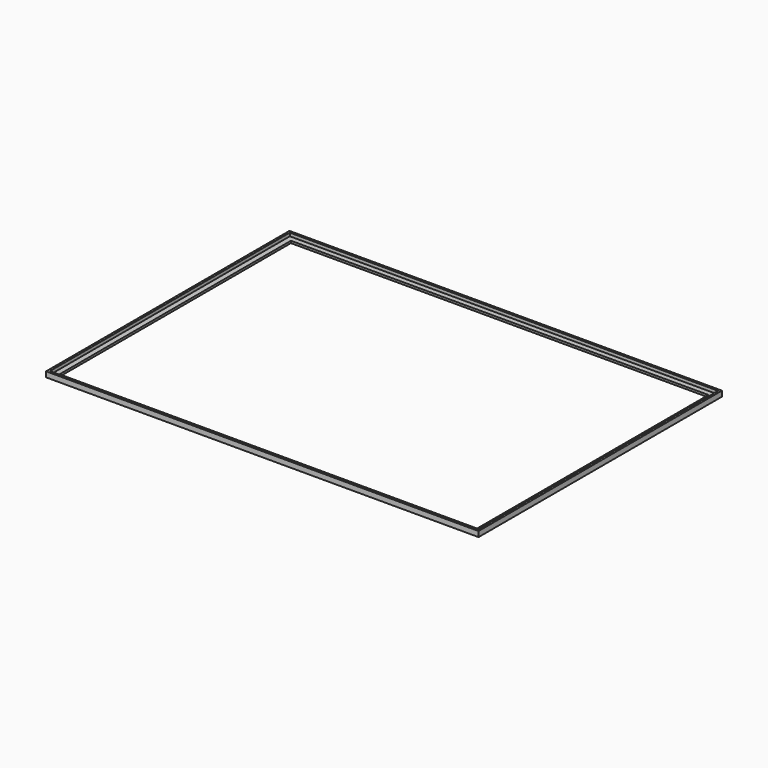
from build123d import *

# Parameters (mm, degrees)
F1_DEPTH = 25
F2_DEPTH = 10


with BuildPart() as f1:
    # F0 (on Top) → F1 (new body)
    with BuildSketch(Plane.XY):
        Polygon((-1011, 711), (-1001, 701), (1001, 701), (1011, 711), align=None)
        Polygon((-1001, -701), (-1001, 701), (-1011, 711), (-1011, -711), align=None)
        Polygon((1011, 711), (1001, 701), (1001, -701), (1011, -711), align=None)
        Polygon((1001, -701), (-1001, -701), (-1011, -711), (1011, -711), align=None)
    extrude(amount=F1_DEPTH)

    # F0 (on Top) → F2 (join)
    with BuildSketch(Plane.XY):
        Polygon((-976, -676), (-976, 676), (-1001, 701), (-1001, -701), align=None)
        Polygon((-1001, 701), (-976, 676), (976, 676), (1001, 701), align=None)
        Polygon((1001, 701), (976, 676), (976, -676), (1001, -701), align=None)
        Polygon((976, -676), (-976, -676), (-1001, -701), (1001, -701), align=None)
    extrude(amount=F2_DEPTH)


solid = f1.part
